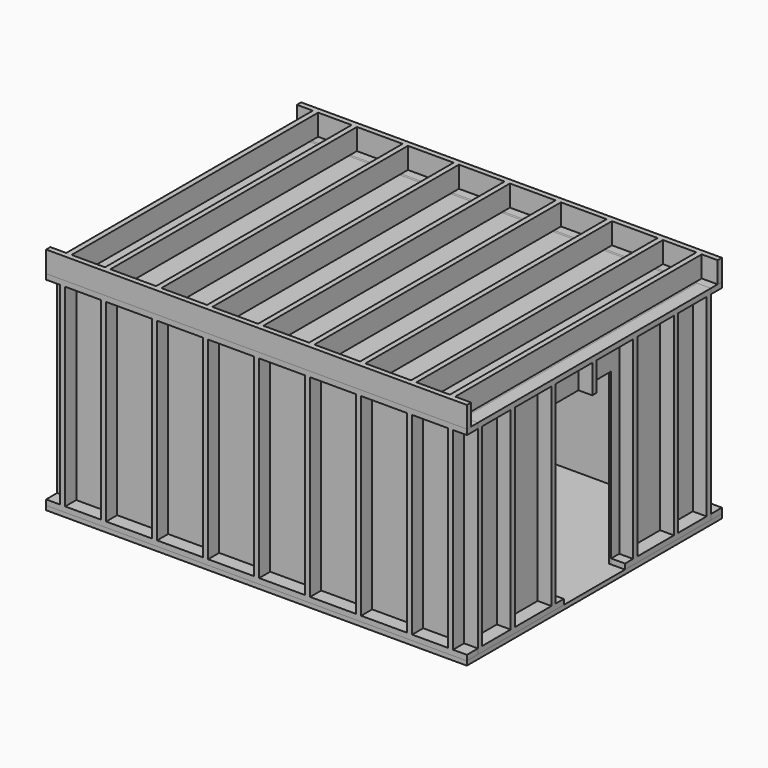
from build123d import *

# Parameters (mm, degrees)
F0_W      = 1174.75
F0_H      = 869.95
F0_W_2    = 1162.05
F0_H_2    = 857.25
F1_DEPTH  = 609.6
F2_W      = 15.875
F2_H      = 577.85
F3_DEPTH  = 41.275
F5_W      = 15.875
F5_H      = 577.85
F6_DEPTH  = 41.275
F8_W      = 1162.05
F8_H      = 857.25
F9_DEPTH  = 6.35
F10_W     = 15.875
F10_H     = 920.75
F10_H_2   = 895.35
F10_H_3   = 25.4
F11_DEPTH = 63.5
F12_W     = 106.3625
F12_H     = 492.125
F13_DEPTH = 76.2
F14_W     = 1257.3
F14_H     = 911.225
F14_H_2   = 41.275
F15_DEPTH = 12.7


with BuildPart() as f1:
    # F0 (on Top) → F1 (new body)
    with BuildSketch(Plane.XY):
        Rectangle(F0_W, F0_H)
        Rectangle(F0_W_2, F0_H_2, mode=Mode.SUBTRACT)
    extrude(amount=F1_DEPTH)


with BuildPart() as f3:
    # F2 (on face) → F3 (new body)
    with BuildSketch(Plane.XZ.offset(434.975)):
        Polygon((-628.65, 15.875), (-628.65, 0), (628.65, 0), (628.65, 15.875), (587.375, 15.875), (571.5, 15.875), (465.1375, 15.875), (449.2625, 15.875), (312.7375, 15.875), (296.8625, 15.875), (160.3375, 15.875), (144.4625, 15.875), (7.9375, 15.875), (-7.9375, 15.875), (-144.4625, 15.875), (-160.3375, 15.875), (-296.8625, 15.875), (-312.7375, 15.875), (-449.2625, 15.875), (-465.1375, 15.875), (-571.5, 15.875), (-587.375, 15.875), align=None)
        with Locations((-579.4375, 304.8)):
            Rectangle(F2_W, F2_H)
        with Locations((579.4375, 304.8)):
            Rectangle(F2_W, F2_H)
        Polygon((-628.65, 593.725), (-587.375, 593.725), (-571.5, 593.725), (-465.1375, 593.725), (-449.2625, 593.725), (-312.7375, 593.725), (-296.8625, 593.725), (-160.3375, 593.725), (-144.4625, 593.725), (-7.9375, 593.725), (7.9375, 593.725), (144.4625, 593.725), (160.3375, 593.725), (296.8625, 593.725), (312.7375, 593.725), (449.2625, 593.725), (465.1375, 593.725), (571.5, 593.725), (587.375, 593.725), (628.65, 593.725), (628.65, 609.6), (-628.65, 609.6), align=None)
        with Locations((-457.2, 304.8)):
            Rectangle(F2_W, F2_H)
        with Locations((-304.8, 304.8)):
            Rectangle(F2_W, F2_H)
        with Locations((-152.4, 304.8)):
            Rectangle(F2_W, F2_H)
        with Locations((0, 304.8)):
            Rectangle(F2_W, F2_H)
        with Locations((152.4, 304.8)):
            Rectangle(F2_W, F2_H)
        with Locations((304.8, 304.8)):
            Rectangle(F2_W, F2_H)
        with Locations((457.2, 304.8)):
            Rectangle(F2_W, F2_H)
    extrude(amount=F3_DEPTH)


with BuildPart() as f4_1:
    # F4: instance of F3
    add(f3.part.mirror(Plane.XZ))


with BuildPart() as f6:
    # F5 (on face) → F6 (new body)
    with BuildSketch(Plane.YZ.offset(587.375)):
        Polygon((-434.975, 15.875), (-434.975, 0), (434.975, 0), (434.975, 15.875), (419.1, 15.875), (312.7375, 15.875), (296.8625, 15.875), (160.3375, 15.875), (144.4625, 15.875), (7.9375, 15.875), (-7.9375, 15.875), (-144.4625, 15.875), (-160.3375, 15.875), (-296.8625, 15.875), (-312.7375, 15.875), (-419.1, 15.875), align=None)
        with Locations((-427.0375, 304.8)):
            Rectangle(F5_W, F5_H)
        with Locations((427.0375, 304.8)):
            Rectangle(F5_W, F5_H)
        Polygon((-434.975, 609.6), (-434.975, 593.725), (-419.1, 593.725), (-312.7375, 593.725), (-296.8625, 593.725), (-160.3375, 593.725), (-144.4625, 593.725), (-7.9375, 593.725), (7.9375, 593.725), (144.4625, 593.725), (160.3375, 593.725), (296.8625, 593.725), (312.7375, 593.725), (419.1, 593.725), (434.975, 593.725), (434.975, 609.6), align=None)
        with Locations((-304.8, 304.8)):
            Rectangle(F5_W, F5_H)
        with Locations((-152.4, 304.8)):
            Rectangle(F5_W, F5_H)
        with Locations((0, 304.8)):
            Rectangle(F5_W, F5_H)
        with Locations((152.4, 304.8)):
            Rectangle(F5_W, F5_H)
        with Locations((304.8, 304.8)):
            Rectangle(F5_W, F5_H)
    extrude(amount=F6_DEPTH)


with BuildPart() as f7_1:
    # F7: instance of F6
    add(f6.part.mirror(Plane.YZ))


with BuildPart() as f9:
    # F8 (on face) → F9 (new body)
    with BuildSketch(Plane.XY.offset(609.6)):
        Rectangle(F8_W, F8_H)
    extrude(amount=-F9_DEPTH)


with BuildPart() as f11:
    # F10 (on face) → F11 (new body)
    with BuildSketch(Plane.XY.offset(609.6)):
        Polygon((-628.65, -460.375), (-628.65, -476.25), (628.65, -476.25), (628.65, -460.375), (581.025, -460.375), (565.15, -460.375), (465.1375, -460.375), (449.2625, -460.375), (312.7375, -460.375), (296.8625, -460.375), (160.3375, -460.375), (144.4625, -460.375), (7.9375, -460.375), (-7.9375, -460.375), (-144.4625, -460.375), (-160.3375, -460.375), (-296.8625, -460.375), (-312.7375, -460.375), (-449.2625, -460.375), (-465.1375, -460.375), (-565.15, -460.375), (-581.025, -460.375), align=None)
        with Locations((-573.0875, 0)):
            Rectangle(F10_W, F10_H)
        with Locations((573.0875, 0)):
            Rectangle(F10_W, F10_H)
        Polygon((-628.65, 460.375), (-581.025, 460.375), (-565.15, 460.375), (-465.1375, 460.375), (-449.2625, 460.375), (-312.7375, 460.375), (-296.8625, 460.375), (-160.3375, 460.375), (-144.4625, 460.375), (-7.9375, 460.375), (7.9375, 460.375), (144.4625, 460.375), (160.3375, 460.375), (296.8625, 460.375), (312.7375, 460.375), (449.2625, 460.375), (465.1375, 460.375), (565.15, 460.375), (581.025, 460.375), (628.65, 460.375), (628.65, 476.25), (-628.65, 476.25), align=None)
        with Locations((-457.2, 12.7)):
            Rectangle(F10_W, F10_H_2)
        with Locations((-304.8, 12.7)):
            Rectangle(F10_W, F10_H_2)
        with Locations((-152.4, 12.7)):
            Rectangle(F10_W, F10_H_2)
        with Locations((0, 12.7)):
            Rectangle(F10_W, F10_H_2)
        with Locations((152.4, 12.7)):
            Rectangle(F10_W, F10_H_2)
        with Locations((304.8, 12.7)):
            Rectangle(F10_W, F10_H_2)
        with Locations((457.2, 12.7)):
            Rectangle(F10_W, F10_H_2)
        with Locations((-457.2, -447.675)):
            Rectangle(F10_W, F10_H_3)
        with Locations((-304.8, -447.675)):
            Rectangle(F10_W, F10_H_3)
        with Locations((-152.4, -447.675)):
            Rectangle(F10_W, F10_H_3)
        with Locations((0, -447.675)):
            Rectangle(F10_W, F10_H_3)
        with Locations((152.4, -447.675)):
            Rectangle(F10_W, F10_H_3)
        with Locations((304.8, -447.675)):
            Rectangle(F10_W, F10_H_3)
        with Locations((457.2, -447.675)):
            Rectangle(F10_W, F10_H_3)
    extrude(amount=F11_DEPTH)


with BuildPart() as f13_tool:
    # F12 (on face) → F13 (new body)
    with BuildSketch(Plane.YZ.offset(628.65)):
        with Locations((-61.11875, 261.9375)):
            Rectangle(F12_W, F12_H)
        with Locations((61.11875, 261.9375)):
            Rectangle(F12_W, F12_H)
        Polygon((7.9375, 508), (-7.9375, 508), (-7.9375, 15.875), (-114.3, 15.875), (-114.3, 0), (114.3, 0), (114.3, 15.875), (7.9375, 15.875), align=None)
    extrude(amount=-F13_DEPTH)


with BuildPart() as f1_1:
    add(f1.part)

    # F13: cut by f13_tool
    add(f13_tool.part, mode=Mode.SUBTRACT)


with BuildPart() as f6_1:
    add(f6.part)

    # F13: cut by f13_tool
    add(f13_tool.part, mode=Mode.SUBTRACT)


with BuildPart() as f15:
    # F14 (on face) → F15 (new body)
    with BuildSketch(Plane(origin=(0, 0, 0), x_dir=(1, 0, 0), z_dir=(0, 0, -1))):
        with Locations((0, -20.6375)):
            Rectangle(F14_W, F14_H)
        with Locations((0, 455.6125)):
            Rectangle(F14_W, F14_H_2)
    extrude(amount=F15_DEPTH)


solid = Compound([f3.part, f4_1.part, f7_1.part, f9.part, f11.part, f1_1.part, f6_1.part, f15.part])
